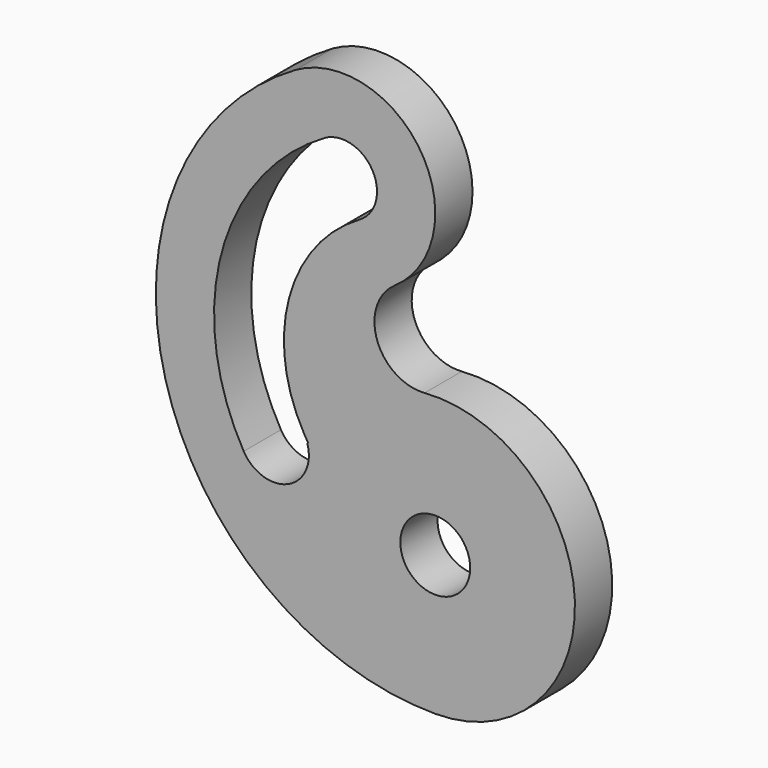
from build123d import *

# Parameters (mm, degrees)
F0_R     = 19.05
F1_DEPTH = 25.4


with BuildPart() as f1:
    # F0 (on Front) → F1 (new body)
    with BuildSketch(Plane.XZ):
        with BuildLine():
            ThreePointArc((-76.2, 208.182272), (-147.207096, 36.755978), (0, -76.2))
            ThreePointArc((0, -76.2), (76.144236, 2.914684), (-5.825102, 75.977024))
            ThreePointArc((-5.825102, 75.977024), (-31.726976, 92.872393), (-22.111201, 122.264526))
            ThreePointArc((-22.111201, 122.264526), (-7.809666, 191.252386), (-76.2, 208.182272))
        make_face()
        Circle(F0_R, mode=Mode.SUBTRACT)
        with BuildLine():
            ThreePointArc((-104.485965, 15.875), (-116.538951, 107.426518), (-60.325, 180.685965))
            ThreePointArc((-60.325, 180.685965), (-34.302216, 173.713181), (-41.275, 147.690397))
            ThreePointArc((-41.275, 147.690397), (-79.737177, 97.565512), (-71.490397, 34.925))
            ThreePointArc((-71.490397, 34.925), (-70.461681, 33.192396), (-69.390983, 31.485417))
            ThreePointArc((-69.390983, 31.485417), (-69.551859, 31.128425), (-69.710899, 30.770612))
            ThreePointArc((-69.710899, 30.770612), (-80.487417, 7.888831), (-104.485965, 15.875))
        make_face(mode=Mode.SUBTRACT)
    extrude(amount=F1_DEPTH)


solid = f1.part
